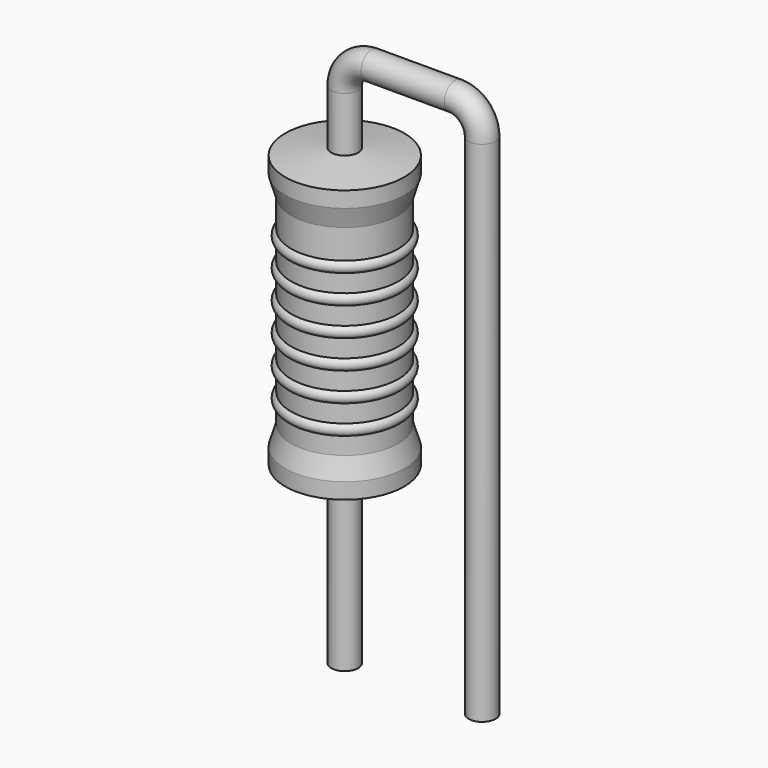
from build123d import *

# Parameters (mm, degrees)
SKETCH_R = 0.25


with BuildPart() as sweep_body:
    # Sweep: sweep along a path in Sketch001
    with BuildLine(Plane.XZ) as sweep_path:
        Line((0, -3), (0, 6.4))
        ThreePointArc((0, 6.4), (0.146444, 6.75355), (0.499992, 6.9))
        Line((0.499992, 6.9), (2.04, 6.9))
        ThreePointArc((2.04, 6.9), (2.393553, 6.753553), (2.54, 6.4))
        Line((2.54, 6.4), (2.54, -3))
    # Sketch → Sweep (sweep)
    with BuildSketch(Plane.XY.offset(-2)):
        Circle(SKETCH_R)
    sweep(path=sweep_path.line)


with BuildPart() as revolution:
    # Sketch002 → Revolution (revolve)
    with BuildSketch(Plane.XZ):
        Polygon((0, 0.1), (0, 5.4), (0.1875, 5.4), (1.1, 5.2675), (1.1, 4.975), (0.99, 4.605), (0.99, 0.895), (1.1, 0.525), (1.1, 0.2325), (0.1875, 0.1), align=None)
    revolve(axis=Axis((0, 0, 0), (0, 0, 1)))


with BuildPart() as revolution001:
    # Sketch003 → Revolution001 (revolve)
    with BuildSketch(Plane.XZ):
        with BuildLine():
            Line((0.88, 4.385), (0.88, 0.895))
            Line((0.88, 0.895), (0.946, 0.895))
            Line((0.946, 0.895), (0.946, 1.205))
            ThreePointArc((0.946, 1.205), (1.056, 1.315), (0.946, 1.425))
            Line((0.946, 1.425), (0.946, 1.735))
            ThreePointArc((0.946, 1.735), (1.056, 1.845), (0.946, 1.955))
            Line((0.946, 1.955), (0.946, 2.265))
            ThreePointArc((0.946, 2.265), (1.056, 2.375), (0.946, 2.485))
            Line((0.946, 2.485), (0.946, 2.795))
            ThreePointArc((0.946, 2.795), (1.056, 2.905), (0.946, 3.015))
            Line((0.946, 3.015), (0.946, 3.325))
            ThreePointArc((0.946, 3.325), (1.056, 3.435), (0.946, 3.545))
            Line((0.946, 3.545), (0.946, 3.855))
            ThreePointArc((0.946, 3.855), (1.056, 3.965), (0.946, 4.075))
            Line((0.946, 4.385), (0.946, 4.075))
            Line((0.88, 4.385), (0.946, 4.385))
        make_face()
    revolve(axis=Axis((0, 0, 0), (0, 0, 1)))


solid = Compound([sweep_body.part, revolution.part, revolution001.part])
